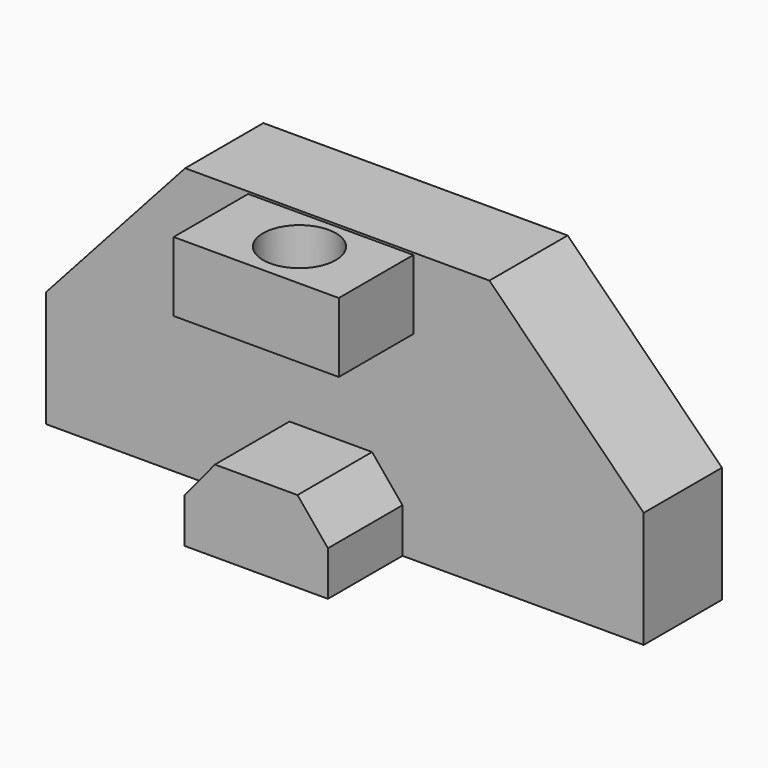
from build123d import *

# Parameters (mm, degrees)
F0_W     = 66.776178
F0_H     = 12.991002
F1_DEPTH = 10.922
F2_W     = 18.454506
F2_H     = 7.770319
F3_DEPTH = 10.414
F4_R     = 4.070445
F5_DEPTH = 37.846
F6_W     = 16.026282
F6_H     = 4.97786
F7_DEPTH = 10.414


with BuildPart() as f1:
    # F0 (on Front) → F1 (new body)
    with BuildSketch(Plane.XZ):
        with Locations((2.792459, 6.495501)):
            Rectangle(F0_W, F0_H)
        Polygon((-15.054992, 30.231398), (-30.59563, 12.991002), (36.180548, 12.991002), (18.940151, 30.231398), align=None)
    extrude(amount=-F1_DEPTH)

    # F2 (on Front) → F3 (join)
    with BuildSketch(Plane.XZ):
        with Locations((1.214112, 26.103414)):
            Rectangle(F2_W, F2_H)
    extrude(amount=F3_DEPTH)

    # F4 (on Top) → F5 (cut)
    with BuildSketch(Plane.XY):
        with Locations((1.699758, -4.97786)):
            Circle(F4_R)
    extrude(amount=F5_DEPTH, mode=Mode.SUBTRACT)

    # F6 (on Front) → F7 (join)
    with BuildSketch(Plane.XZ):
        with Locations((1.214112, 2.48893)):
            Rectangle(F6_W, F6_H)
        Polygon((-3.399515, 9.105843), (-6.799029, 4.97786), (9.227253, 4.97786), (5.827739, 9.105843), align=None)
    extrude(amount=F7_DEPTH)


solid = f1.part
